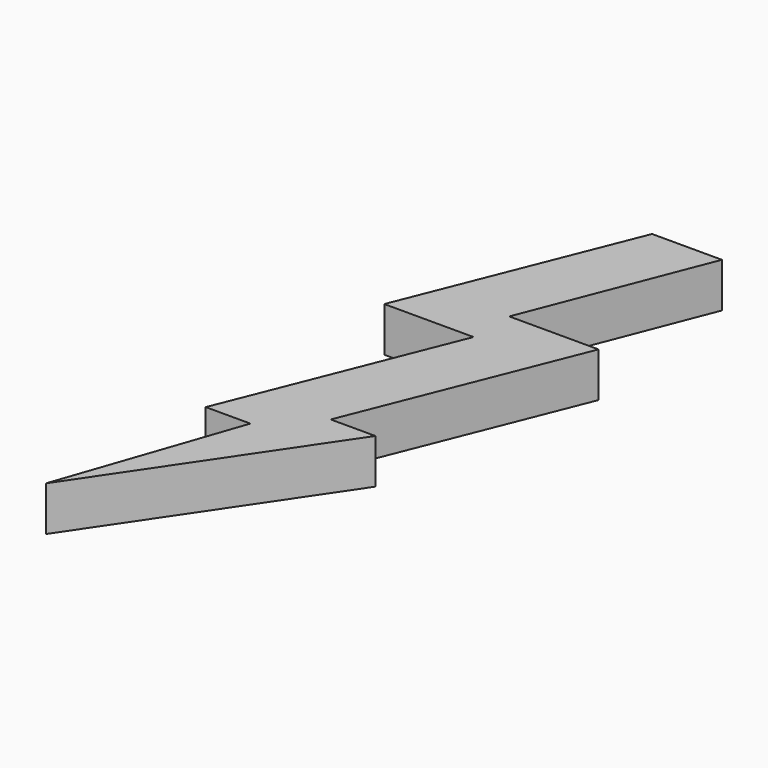
from build123d import *

# Parameters (mm, degrees)
PAD_DEPTH = 10


with BuildPart() as part:
    # Sketch → Pad (new body)
    with BuildSketch(Plane.XY):
        Polygon((40, 70), (20, 20), (40, 20), (20, -30), (30, -30), (16.22855, -70), (50, -20), (40, -20), (60, 30), (40, 30), (55.648129, 70), align=None)
    extrude(amount=PAD_DEPTH)


solid = part.part
